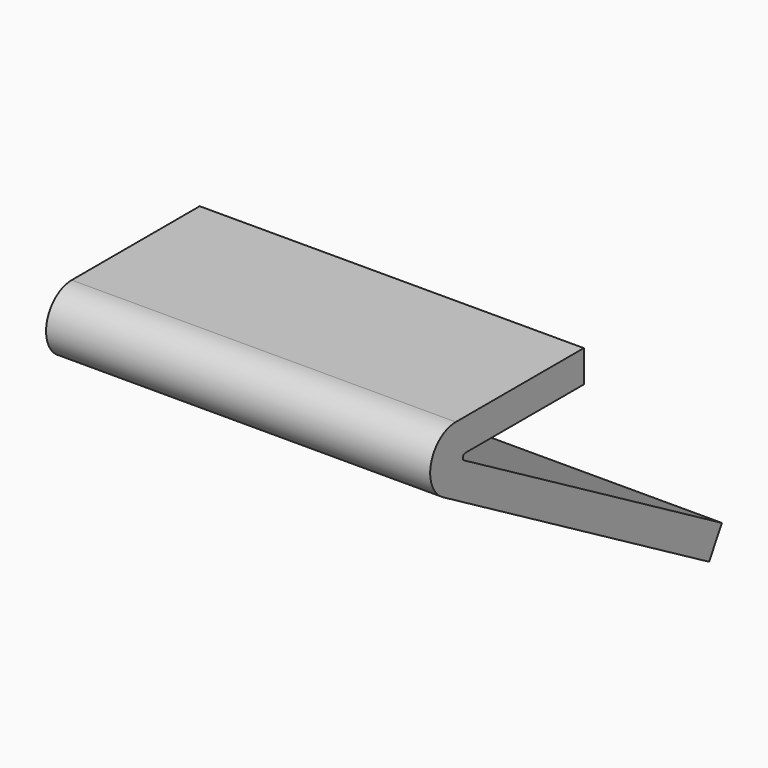
from build123d import *

# Parameters (mm, degrees)
F1_DEPTH = 6


with BuildPart() as f1:
    # F0 (on Right) → F1 (new body, symmetric)
    with BuildSketch(Plane.YZ):
        with BuildLine():
            Line((-10.392305, 6), (0, 0))
            Line((0, 0), (0.5, 0.866025))
            Line((0.5, 0.866025), (-9.5691, 6.679423))
            ThreePointArc((-9.5691, 6.679423), (-9.615692, 6.791907), (-9.5191, 6.866025))
            Line((-9.5191, 6.866025), (-4.892305, 6.866025))
            Line((-4.892305, 6.866025), (-4.892305, 7.866025))
            Line((-4.892305, 7.866025), (-9.892305, 7.866025))
            ThreePointArc((-9.892305, 7.866025), (-10.858231, 7.124844), (-10.392305, 6))
        make_face()
    extrude(amount=F1_DEPTH, both=True)


solid = f1.part
